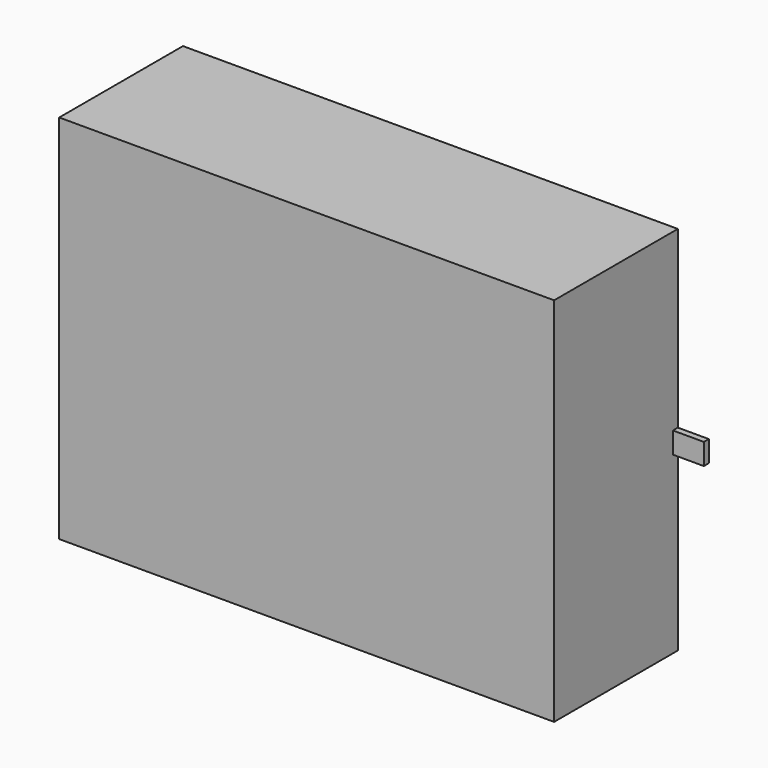
from build123d import *

# Parameters (mm, degrees)
F1_DEPTH = 50
F0_W     = 10
F0_H     = 7.5
F0_H_2   = 6.884822
F2_DEPTH = 2


with BuildPart() as f1:
    # F0 (on Front) → F1 (new body)
    with BuildSketch(Plane.XZ):
        Polygon((80, 3.442411), (80, 60), (-80, 60), (-80, 26.75), (-80, 19.25), (-80, -18.25), (-80, -25.75), (-80, -60), (80, -60), (80, -3.442411), align=None)
    extrude(amount=F1_DEPTH)

    # F0 (on Front) → F2 (join)
    with BuildSketch(Plane.XZ):
        with Locations((-85, -22)):
            Rectangle(F0_W, F0_H)
        with Locations((-85, 23)):
            Rectangle(F0_W, F0_H)
        with Locations((85, 0)):
            Rectangle(F0_W, F0_H_2)
    extrude(amount=F2_DEPTH)


solid = f1.part
